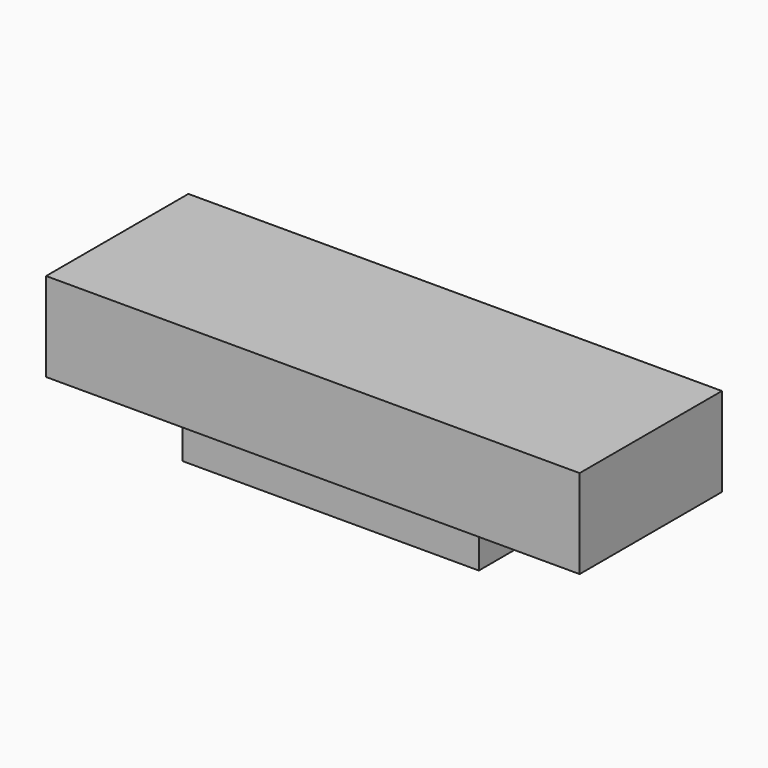
from build123d import *

# Parameters (mm, degrees)
F1_DEPTH = 304.8
F0_W     = 508
F0_H     = 152.4
F2_DEPTH = 228.6


with BuildPart() as f1:
    # F0 (on Front) → F1 (new body, symmetric)
    with BuildSketch(Plane.XZ):
        Polygon((-914.4, 0), (-508, 0), (0, 0), (508, 0), (914.4, 0), (914.4, 304.8), (-914.4, 304.8), align=None)
    extrude(amount=F1_DEPTH, both=True)


with BuildPart() as f2:
    # F0 (on Front) → F2 (new body, symmetric)
    with BuildSketch(Plane.XZ):
        with Locations((-254, -76.2)):
            Rectangle(F0_W, F0_H)
        with Locations((254, -76.2)):
            Rectangle(F0_W, F0_H)
    extrude(amount=F2_DEPTH, both=True)


solid = Compound([f1.part, f2.part])
